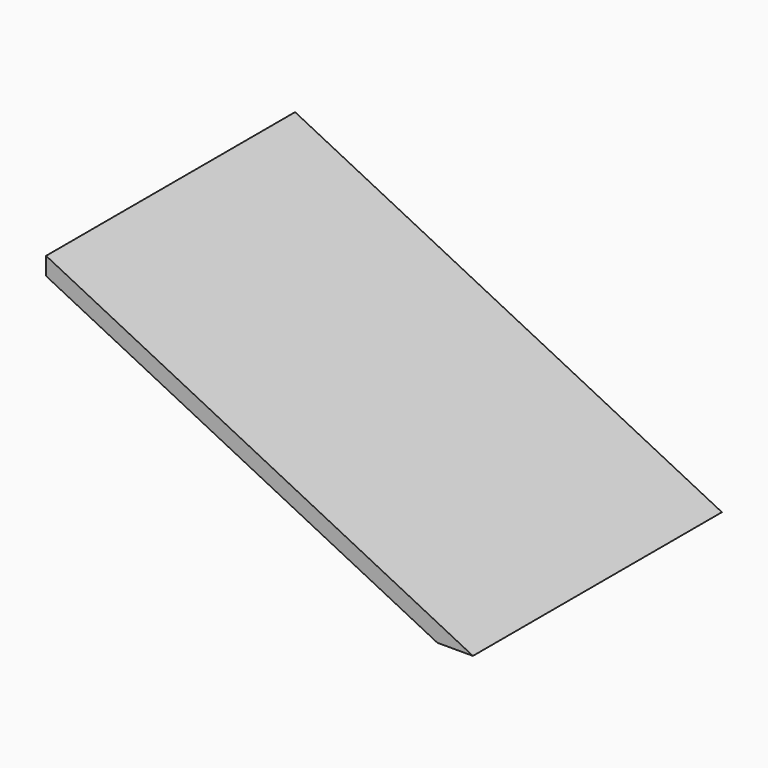
from build123d import *

# Parameters (mm, degrees)
EXTRUDE_SKETCH010001_DEPTH                     = 2625
EXTRUDE_SKETCH010001_ONTO_SKETCH010_ROLL_ANGLE = 90


with BuildPart() as obj1:
    # Sketch010 as drawn → Extrude_Sketch010001 (new)
    with BuildSketch(Plane.XY):
        Polygon((6725, 400), (10325, 2200), (10325, 2050), (7025, 400), align=None)
    extrude(amount=-EXTRUDE_SKETCH010001_DEPTH)


with BuildPart() as obj1_1:
    # Extrude_Sketch010001 onto Sketch010 roll: moved
    add(obj1.part.rotate(Axis((0, 0, 0), (1, 0, 0)), EXTRUDE_SKETCH010001_ONTO_SKETCH010_ROLL_ANGLE))


with BuildPart() as obj1_2:
    # Extrude_Sketch010001 onto Sketch010 placement: moved
    add(obj1_1.part.moved(Location((0, 475, 0))))


with BuildPart() as part_mirroring002:
    # Part__Mirroring002: instance of obj1
    add(obj1_2.part.mirror(Plane(origin=(0, 3100, 0), x_dir=(1, 0, 0), z_dir=(0, 1, 0))))


with BuildPart() as part_mirroring003:
    # Part__Mirroring003: instance of Part__Mirroring002
    add(part_mirroring002.part.mirror(Plane(origin=(8525, 0, 0), x_dir=(0, -1, 0), z_dir=(1, 0, 0))))


with BuildPart() as part_mirroring003_1:
    # Part__Mirroring003 placement: moved
    add(part_mirroring003.part.moved(Location((0, 0, 1650))))


solid = part_mirroring003_1.part
